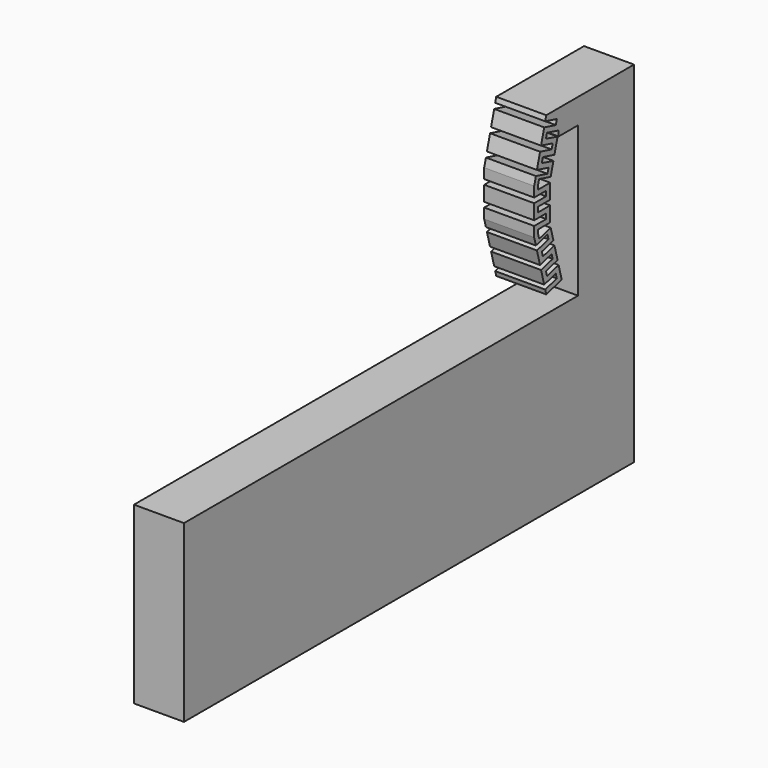
from build123d import *

# Parameters (mm, degrees)
F2_DEPTH = 1
F4_W     = 0.6
F4_H     = 0.2
F5_DEPTH = 2


with BuildPart() as f2:
    # F1 (on Right) → F2 (new body, symmetric)
    with BuildSketch(Plane.YZ):
        Polygon((-7.008955565, 7), (-7.008955565, 0), (15.491044435, 0), (15.491044435, 14), (11.102885683, 14), (10.5, 11.75), (10.5, 9.939), (11.102885683, 7.689), (11.875626344, 7.8960552361), (11.3, 10.0443219981), (11.3, 11.6446780019), (11.6631574349, 13), (12.691044435, 13), (12.691044435, 7), align=None)
    extrude(amount=F2_DEPTH, both=True)

    # F4 (on face) → F5 (cut, through all)
    with BuildSketch(Plane.YZ.offset(1)):
        Polygon((11.5789135607, 8.2306617576), (10.9993580649, 8.0753703305), (11.0511218739, 7.8821851653), (11.6306773697, 8.0374765923), align=None)
        Polygon((11.1407794212, 8.3203193048), (11.7203349169, 8.4756107319), (11.6685711079, 8.6687958971), (11.0890156121, 8.5135044701), align=None)
        Polygon((10.8440666379, 8.6549258263), (11.4236221336, 8.8102172534), (11.3718583246, 9.0034024186), (10.7923028288, 8.8481109915), align=None)
        Polygon((10.8819603761, 9.2862451311), (10.9337241851, 9.0930599658), (11.5132796809, 9.2483513929), (11.4615158718, 9.4415365581), align=None)
        Polygon((10.6370114018, 9.4276664873), (11.2165668976, 9.5829579144), (11.1648030885, 9.7761430796), (10.5852475928, 9.6208516526), align=None)
        Polygon((11.3, 10.0443219981), (11.3, 10.1443219981), (10.7, 10.1443219981), (10.7, 9.9653304995), (10.7463264087, 9.7924379884), (11.3258819045, 9.9477294154), align=None)
        with Locations((10.8, 10.4443219981)):
            Rectangle(F4_W, F4_H)
        Polygon((10.7, 10.7445), (11.3, 10.7445), (11.3, 10.8445), (11.3, 10.9445), (10.7, 10.9445), (10.7, 10.8445), align=None)
        Polygon((11.6306773697, 13.6515234077), (11.0511218739, 13.8068148347), (10.9993580649, 13.6136296695), (11.5789135607, 13.4583382424), align=None)
        Polygon((10.5852475928, 12.0681483474), (11.1648030885, 11.9128569204), (11.2165668976, 12.1060420856), (10.6370114018, 12.2613335127), align=None)
        with Locations((10.8, 11.2446780019)):
            Rectangle(F4_W, F4_H)
        Polygon((11.5132796809, 12.4406486071), (10.9337241851, 12.5959400342), (10.8819603761, 12.4027548689), (11.4615158718, 12.2474634419), align=None)
        Polygon((10.7923028288, 12.8408890085), (11.3718583246, 12.6855975814), (11.4236221336, 12.8787827466), (10.8440666379, 13.0340741737), align=None)
        Polygon((11.7203349169, 13.2133892681), (11.1407794212, 13.3686806952), (11.0890156121, 13.1754955299), (11.6631574349, 13.0216546922), (11.6631574349, 13), (11.7203349169, 13), align=None)
        Polygon((10.7, 11.5446780019), (11.3, 11.5446780019), (11.3, 11.6446780019), (11.3258819045, 11.7412705846), (10.7463264087, 11.8965620116), (10.7, 11.7236695005), align=None)
    extrude(amount=-F5_DEPTH, mode=Mode.SUBTRACT)


solid = f2.part
